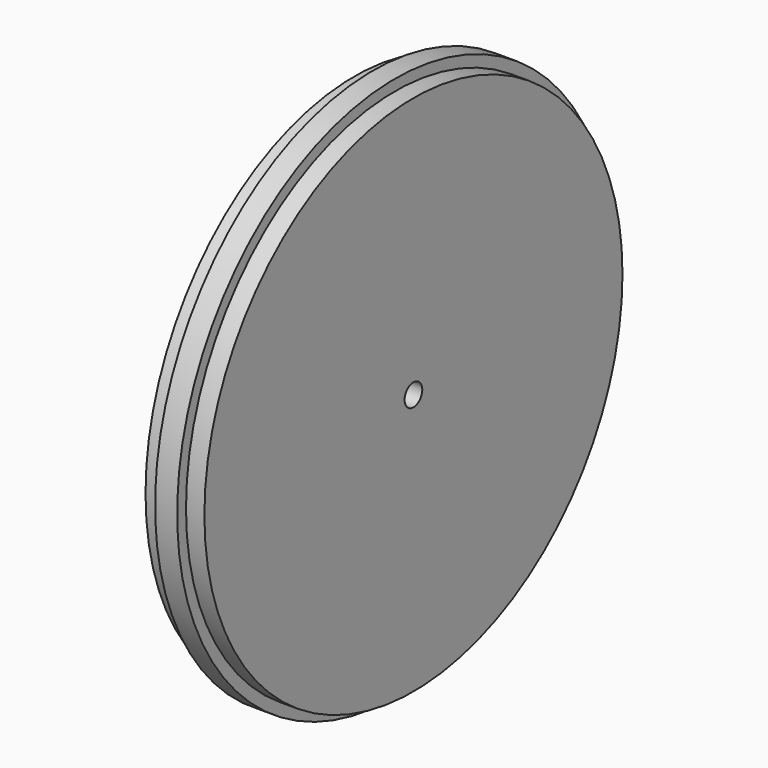
from build123d import *

# Parameters (mm, degrees)
F0_R     = 37
F0_R_2   = 35.5
F1_DEPTH = 1.5
F0_R_3   = 1.5
F2_DEPTH = 4


with BuildPart() as f1:
    # F0 (on Right) → F1 (new body, symmetric)
    with BuildSketch(Plane.YZ):
        Circle(F0_R)
        Circle(F0_R_2, mode=Mode.SUBTRACT)
    extrude(amount=F1_DEPTH, both=True)

    # F0 (on Right) → F2 (join, symmetric)
    with BuildSketch(Plane.YZ):
        Circle(F0_R_2)
        Circle(F0_R_3, mode=Mode.SUBTRACT)
    extrude(amount=F2_DEPTH, both=True)


solid = f1.part
